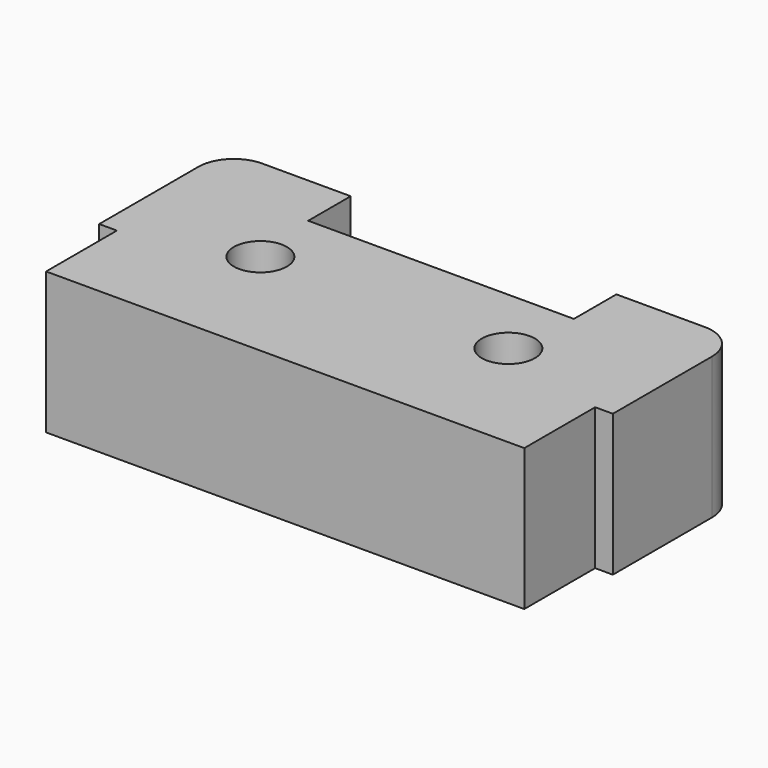
from build123d import *

# Parameters (mm, degrees)
F0_R     = 0.75
F1_DEPTH = 4


with BuildPart() as f1:
    # F0 (on Top) → F1 (new body)
    with BuildSketch(Plane.XY):
        with BuildLine():
            ThreePointArc((1, 7), (0.292893, 6.707107), (0, 6))
            ThreePointArc((0, 6), (1, 5), (2, 6))
            ThreePointArc((2, 6), (1.707107, 6.707107), (1, 7))
        make_face()
        with BuildLine():
            Line((0.5, 2.5), (0.5, 0))
            Line((0.5, 0), (14, 0))
            Line((14, 0), (14, 2.5))
            Line((14, 2.5), (14.5, 2.5))
            Line((14.5, 2.5), (14.5, 6))
            ThreePointArc((14.5, 6), (12.792893, 5.292893), (13.5, 7))
            Line((13.5, 7), (11, 7))
            Line((11, 7), (11, 5.5))
            Line((11, 5.5), (3.5, 5.5))
            Line((3.5, 5.5), (3.5, 7))
            Line((3.5, 7), (1, 7))
            ThreePointArc((1, 7), (1.707107, 6.707107), (2, 6))
            ThreePointArc((2, 6), (1, 5), (0, 6))
            Line((0, 6), (0, 2.5))
            Line((0, 2.5), (0.5, 2.5))
        make_face()
        with Locations((3.75, 3.5)):
            Circle(F0_R, mode=Mode.SUBTRACT)
        with Locations((10.75, 3.5)):
            Circle(F0_R, mode=Mode.SUBTRACT)
        with BuildLine():
            ThreePointArc((13.5, 7), (12.792893, 5.292893), (14.5, 6))
            ThreePointArc((14.5, 6), (14.207107, 6.707107), (13.5, 7))
        make_face()
    extrude(amount=F1_DEPTH)


solid = f1.part
